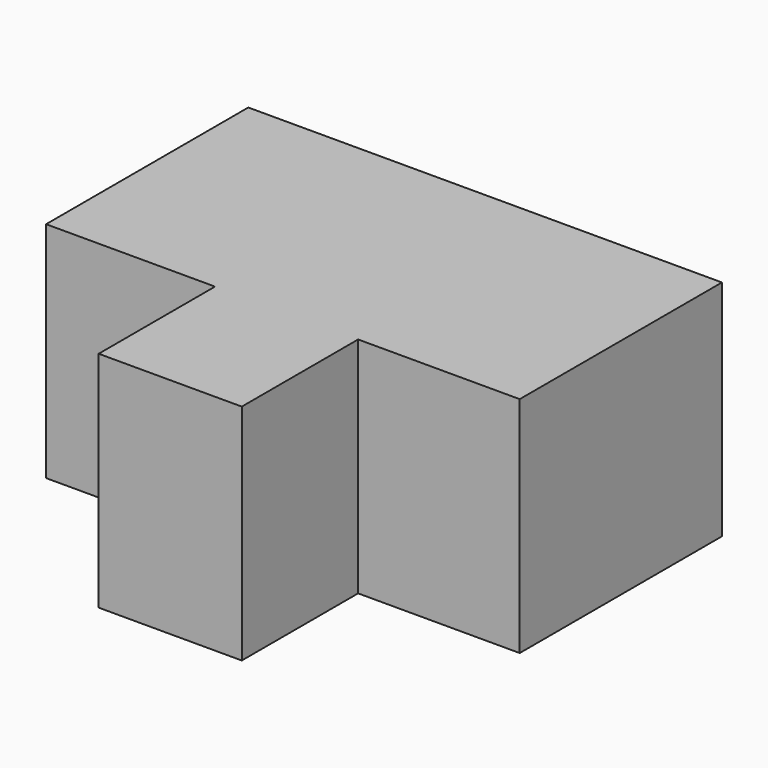
from build123d import *

# Parameters (mm, degrees)
F1_DEPTH = 25.4
F2_SCALE = 1.25


with BuildPart() as f1:
    # F0 (on Top) → F1 (new body)
    with BuildSketch(Plane.XY):
        Polygon((0, 16.5241323411), (0, 0), (16.2604935467, 0), (16.2604935467, 16.5241323411), (34.6229039133, 16.5241323411), (34.6229039133, 45.2440679073), (-19.1962253302, 45.2440679073), (-19.1962253302, 16.5241323411), align=None)
    extrude(amount=F1_DEPTH)


with BuildPart() as f1_1:
    # F2: moved
    add(f1.part.scale(F2_SCALE))


solid = f1_1.part
